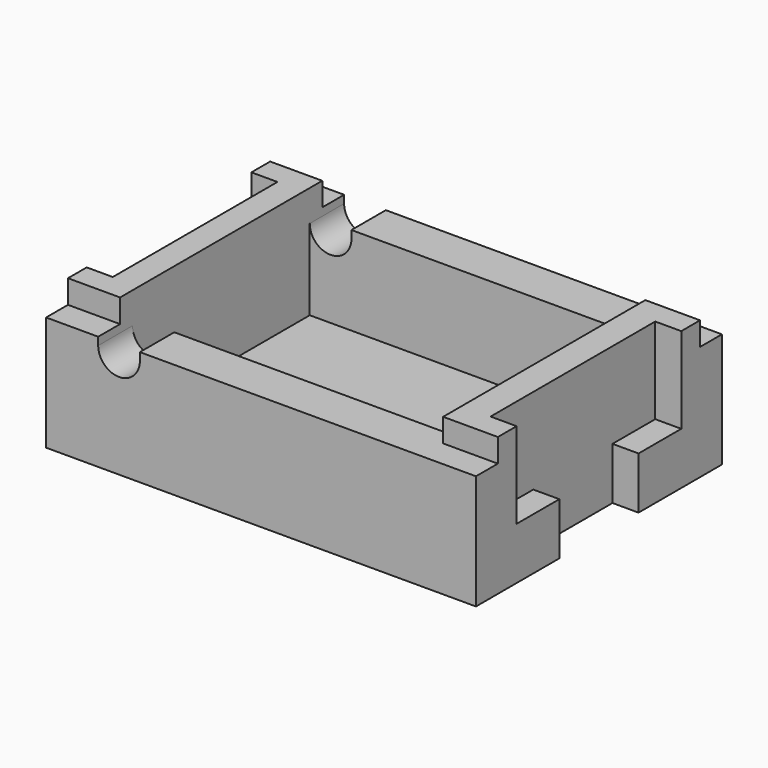
from build123d import *

# Parameters (mm, degrees)
BOX019_W          = 12.3
BOX019_H          = 9.7
BOX019_DEPTH      = 1
CYLINDER004_R     = 0.8
CYLINDER004_DEPTH = 20
BOX018_W          = 1.6
BOX018_H          = 20
BOX018_DEPTH      = 3
BOX017_W          = 12.4
BOX017_H          = 8.5
BOX017_DEPTH      = 4.3
BOX013_W          = 1
BOX013_H          = 2.05
BOX013_DEPTH      = 3.3
BOX014_W          = 1
BOX014_H          = 2.05
BOX014_DEPTH      = 3.3
BOX011_W          = 1
BOX011_H          = 2.05
BOX011_DEPTH      = 3.3
BOX012_W          = 1
BOX012_H          = 2.05
BOX012_DEPTH      = 3.3
BOX010_W          = 1
BOX010_H          = 3.8
BOX010_DEPTH      = 5.3
BOX009_W          = 1
BOX009_H          = 3.8
BOX009_DEPTH      = 5.3
BOX007_W          = 16.5
BOX007_H          = 1.05
BOX007_DEPTH      = 1
BOX008_W          = 16.5
BOX008_H          = 1.05
BOX008_DEPTH      = 1
BOX_W             = 16.5
BOX_H             = 11.8
BOX_DEPTH         = 5.3


with BuildPart() as cube016:
    # Box019 → Box019 (new body)
    with BuildSketch(Plane(origin=(2.1, -4.85, 5.3), x_dir=(1, 0, 0), z_dir=(0, 0, 1))):
        with Locations((6.15, 4.85)):
            Rectangle(BOX019_W, BOX019_H)
    extrude(amount=BOX019_DEPTH)


with BuildPart() as cylinder004:
    # Cylinder004 → Cylinder004 (new body)
    with BuildSketch(Plane(origin=(2.8, 10, 5), x_dir=(1, 0, 0), z_dir=(0, -1, 0))):
        Circle(CYLINDER004_R)
    extrude(amount=CYLINDER004_DEPTH)


with BuildPart() as fusion005:
    # Box018 → Box018 (new body)
    with BuildSketch(Plane(origin=(2, -10, 5), x_dir=(1, 0, 0), z_dir=(0, 0, 1))):
        with Locations((0.8, 10)):
            Rectangle(BOX018_W, BOX018_H)
    extrude(amount=BOX018_DEPTH)

    # Fusion005: union Cylinder004
    add(cylinder004.part)


with BuildPart() as cube:
    # Box017 → Box017 (new body)
    with BuildSketch(Plane(origin=(2, -4.25, 1.9), x_dir=(1, 0, 0), z_dir=(0, 0, 1))):
        with Locations((6.2, 4.25)):
            Rectangle(BOX017_W, BOX017_H)
    extrude(amount=BOX017_DEPTH)


with BuildPart() as cube011:
    # Box013 → Box013 (new body)
    with BuildSketch(Plane(origin=(0, 1.9, 2.9), x_dir=(1, 0, 0), z_dir=(0, 0, 1))):
        with Locations((0.5, 1.025)):
            Rectangle(BOX013_W, BOX013_H)
    extrude(amount=BOX013_DEPTH)


with BuildPart() as cube012:
    # Box014 → Box014 (new body)
    with BuildSketch(Plane(origin=(0, -3.95, 2.9), x_dir=(1, 0, 0), z_dir=(0, 0, 1))):
        with Locations((0.5, 1.025)):
            Rectangle(BOX014_W, BOX014_H)
    extrude(amount=BOX014_DEPTH)


with BuildPart() as cube009:
    # Box011 → Box011 (new body)
    with BuildSketch(Plane(origin=(15.5, -3.95, 2.9), x_dir=(1, 0, 0), z_dir=(0, 0, 1))):
        with Locations((0.5, 1.025)):
            Rectangle(BOX011_W, BOX011_H)
    extrude(amount=BOX011_DEPTH)


with BuildPart() as cube010:
    # Box012 → Box012 (new body)
    with BuildSketch(Plane(origin=(15.5, 1.9, 2.9), x_dir=(1, 0, 0), z_dir=(0, 0, 1))):
        with Locations((0.5, 1.025)):
            Rectangle(BOX012_W, BOX012_H)
    extrude(amount=BOX012_DEPTH)


with BuildPart() as cube008:
    # Box010 → Box010 (new body)
    with BuildSketch(Plane(origin=(15.5, -1.9, 0.9), x_dir=(1, 0, 0), z_dir=(0, 0, 1))):
        with Locations((0.5, 1.9)):
            Rectangle(BOX010_W, BOX010_H)
    extrude(amount=BOX010_DEPTH)


with BuildPart() as fusion003:
    # Box009 → Box009 (new body)
    with BuildSketch(Plane(origin=(0, -1.9, 0.9), x_dir=(1, 0, 0), z_dir=(0, 0, 1))):
        with Locations((0.5, 1.9)):
            Rectangle(BOX009_W, BOX009_H)
    extrude(amount=BOX009_DEPTH)

    # Fusion003: union Cube011, Cube012, Cube009, Cube010, Cube008
    add(cube011.part)
    add(cube012.part)
    add(cube009.part)
    add(cube010.part)
    add(cube008.part)


with BuildPart() as cube005:
    # Box007 → Box007 (new body)
    with BuildSketch(Plane(origin=(0, 4.85, 5.3), x_dir=(1, 0, 0), z_dir=(0, 0, 1))):
        with Locations((8.25, 0.525)):
            Rectangle(BOX007_W, BOX007_H)
    extrude(amount=BOX007_DEPTH)


with BuildPart() as fusion002:
    # Box008 → Box008 (new body)
    with BuildSketch(Plane(origin=(0, -5.9, 5.3), x_dir=(1, 0, 0), z_dir=(0, 0, 1))):
        with Locations((8.25, 0.525)):
            Rectangle(BOX008_W, BOX008_H)
    extrude(amount=BOX008_DEPTH)

    # Fusion002: union Cube005
    add(cube005.part)


with BuildPart() as cut006:
    # Box → Box (new body)
    with BuildSketch(Plane(origin=(0, -5.9, 0.9), x_dir=(1, 0, 0), z_dir=(0, 0, 1))):
        with Locations((8.25, 5.9)):
            Rectangle(BOX_W, BOX_H)
    extrude(amount=BOX_DEPTH)

    # Cut002: cut Fusion002
    add(fusion002.part, mode=Mode.SUBTRACT)

    # Cut003: cut Fusion003
    add(fusion003.part, mode=Mode.SUBTRACT)

    # Cut004: cut Cube
    add(cube.part, mode=Mode.SUBTRACT)

    # Cut005: cut Fusion005
    add(fusion005.part, mode=Mode.SUBTRACT)

    # Cut006: cut Cube016
    add(cube016.part, mode=Mode.SUBTRACT)


solid = cut006.part
